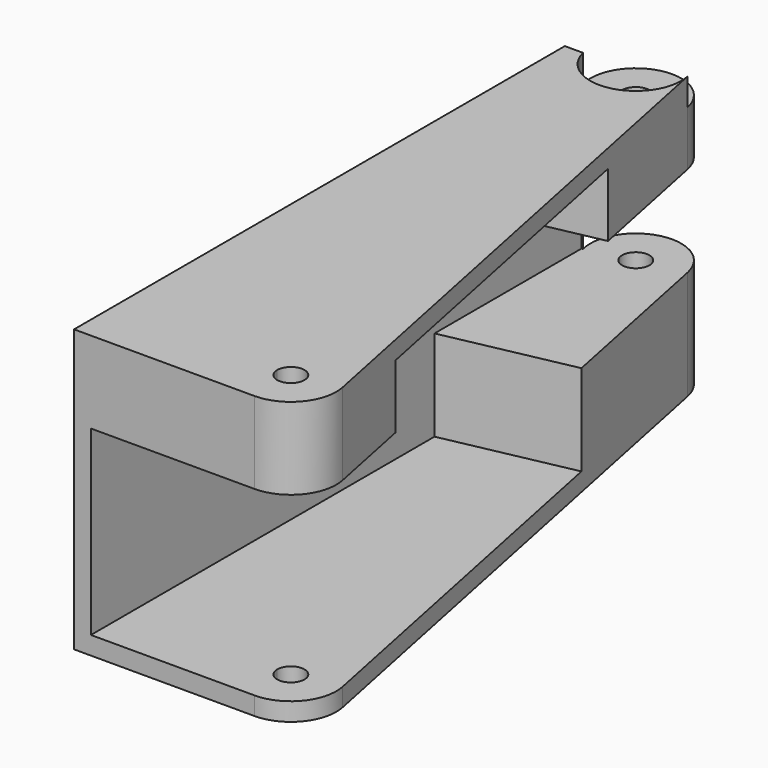
from build123d import *

# Parameters (mm, degrees)
F1_DEPTH = 31
F2_W     = 5
F2_H     = 10
F2_H_2   = 20
F3_DEPTH = 25
F5_DEPTH = 31
F6_R     = 1.5
F7_DEPTH = 3


with BuildPart() as f1:
    # F0 (on Top) → F1 (new body)
    with BuildSketch(Plane.XY):
        with BuildLine():
            Line((-18, -5), (0, -5))
            ThreePointArc((0, -5), (3.8729833462, -3.1622776602), (4.8989794856, 1))
            Line((4.8989794856, 1), (-8.1010205144, 64.6867333124))
            ThreePointArc((-8.1010205144, 64.6867333124), (-13.50254481, 68.6614140774), (-18, 63.6867333124))
            ThreePointArc((-18, 63.6867333124), (-17.9640943536, 63.0885968324), (-17.8568931005, 62.4990509432))
            ThreePointArc((-17.8568931005, 62.4990509432), (-17.9284583077, 62.4785593841), (-18, 62.4579858785))
            Line((-18, 62.4579858785), (-18, -5))
        make_face()
        with BuildLine():
            ThreePointArc((-1.5, 0), (0, 1.5), (1.5, 0))
            ThreePointArc((1.5, 0), (1.0606601718, -1.0606601718), (0, -1.5))
            ThreePointArc((0, -1.5), (-1.0606601718, -1.0606601718), (-1.5, 0))
        make_face(mode=Mode.SUBTRACT)
        with BuildLine():
            ThreePointArc((-11.5, 63.6867333124), (-13, 62.1867333124), (-14.5, 63.6867333124))
            ThreePointArc((-14.5, 63.6867333124), (-13, 65.1867333124), (-11.5, 63.6867333124))
        make_face(mode=Mode.SUBTRACT)
    extrude(amount=F1_DEPTH)

    # F2 (on face) → F3 (cut)
    with BuildSketch(Plane(origin=(4.8989794856, 1, 0), x_dir=(-0.2, 0.9797958971, 0), z_dir=(0.9797958971, 0.2, 0))):
        Polygon((0, 22), (0, 2), (45, 2), (45, 12), (65, 12), (65, 22), (50, 22), (50, 29), (10, 29), (10, 22), align=None)
        with Locations((67.5, 17)):
            Rectangle(F2_W, F2_H)
        with Locations((-2.5, 12)):
            Rectangle(F2_W, F2_H_2)
    extrude(amount=-F3_DEPTH, mode=Mode.SUBTRACT)

    # F4 (on face) → F5 (join)
    with BuildSketch(Plane.XY.offset(31)):
        with BuildLine():
            ThreePointArc((-18, 62.4579858785), (-17.9284583077, 62.4785593841), (-17.8568931005, 62.4990509432))
            Line((-17.8568931005, 62.4990509432), (-19.8568931005, 62.4990509432))
            Line((-19.8568931005, 62.4990509432), (-19.8568931005, -5))
            Line((-19.8568931005, -5), (-18, -5))
            Line((-18, -5), (-18, 62.4579858785))
        make_face()
    extrude(amount=-F5_DEPTH)

    # F6 (on face) → F7 (cut)
    with BuildSketch(Plane.XY.offset(31)):
        with BuildLine():
            ThreePointArc((-8, 63.6867333124), (-8.025319235, 64.1892781224), (-8.1010205144, 64.6867333124))
            ThreePointArc((-8.1010205144, 64.6867333124), (-14.0940435791, 68.5655721749), (-17.8568931005, 62.4990509432))
            ThreePointArc((-17.8568931005, 62.4990509432), (-12.40186352, 58.7226389588), (-8, 63.6867333124))
        make_face()
        with Locations((-13, 63.6867333124)):
            Circle(F6_R, mode=Mode.SUBTRACT)
    extrude(amount=-F7_DEPTH, mode=Mode.SUBTRACT)


solid = f1.part
